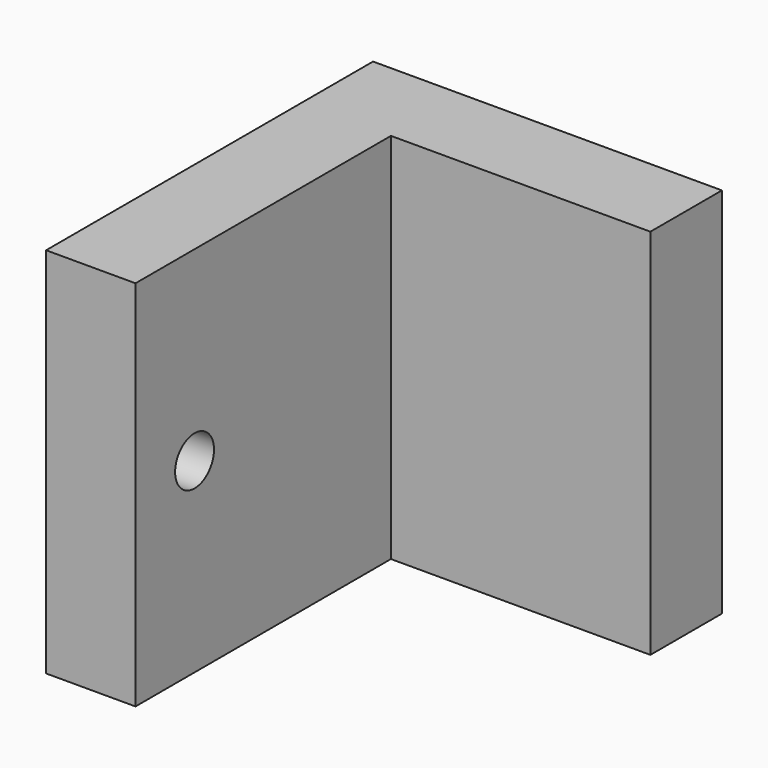
from build123d import *

# Parameters (mm, degrees)
F1_DEPTH       = 25
F3_D           = 3.2639
F3_CSINK_D     = 6.477
F3_CSINK_ANGLE = 82


with BuildPart() as f1:
    # F0 (on Top) → F1 (new body)
    with BuildSketch(Plane.XY):
        Polygon((-29.003669071, 6), (-29.003669071, -21.425), (-23.003669071, -21.425), (-23.003669071, 0), (-5.5934852733, 0), (-5.5934852733, 6), align=None)
    extrude(amount=F1_DEPTH)

    # F3 (through all)
    with Locations(Plane(origin=(-29.003669071, 0, 0), x_dir=(0, -1, 0), z_dir=(-1, 0, 0))):
        with Locations((16.4713294148, 12.5)):
            CounterSinkHole(F3_D / 2, F3_CSINK_D / 2, counter_sink_angle=F3_CSINK_ANGLE)


solid = f1.part
